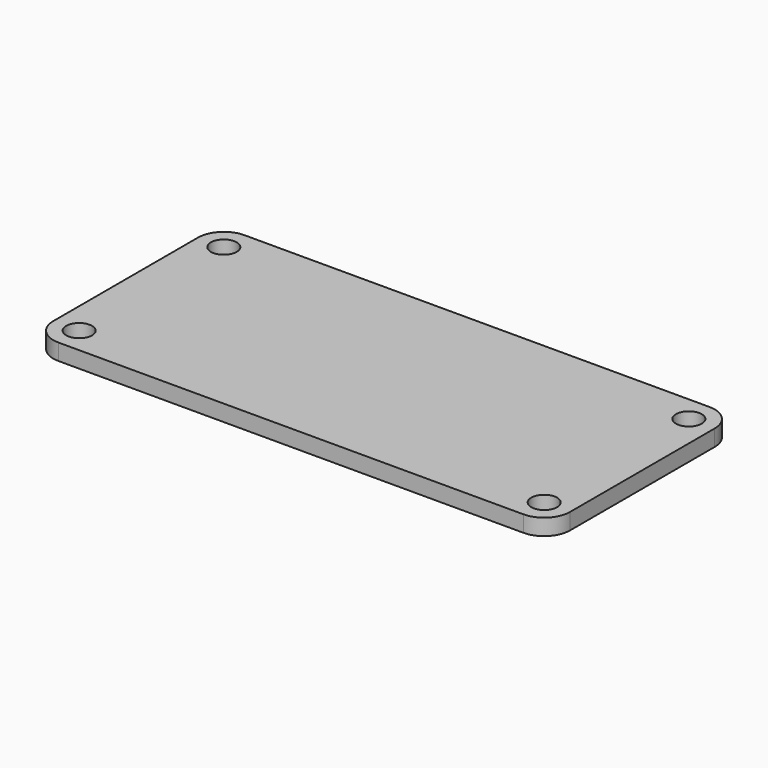
from build123d import *

# Parameters (mm, degrees)
F0_R     = 1.27
F1_DEPTH = 1.6


with BuildPart() as f1:
    # F0 (on Top) → F1 (new body)
    with BuildSketch(Plane.XY):
        with BuildLine():
            Line((22.86, 11.43), (-22.86, 11.43))
            ThreePointArc((-22.86, 11.43), (-24.656051, 10.686051), (-25.4, 8.89))
            Line((-25.4, 8.89), (-25.4, -8.89))
            ThreePointArc((-25.4, -8.89), (-24.656051, -10.686051), (-22.86, -11.43))
            Line((-22.86, -11.43), (22.86, -11.43))
            ThreePointArc((22.86, -11.43), (24.656051, -10.686051), (25.4, -8.89))
            Line((25.4, -8.89), (25.4, 8.89))
            ThreePointArc((25.4, 8.89), (24.656051, 10.686051), (22.86, 11.43))
        make_face()
        with Locations((-22.86, -8.89)):
            Circle(F0_R, mode=Mode.SUBTRACT)
        with Locations((22.86, -8.89)):
            Circle(F0_R, mode=Mode.SUBTRACT)
        with Locations((-22.86, 8.89)):
            Circle(F0_R, mode=Mode.SUBTRACT)
        with Locations((22.86, 8.89)):
            Circle(F0_R, mode=Mode.SUBTRACT)
    extrude(amount=-F1_DEPTH)


solid = f1.part
